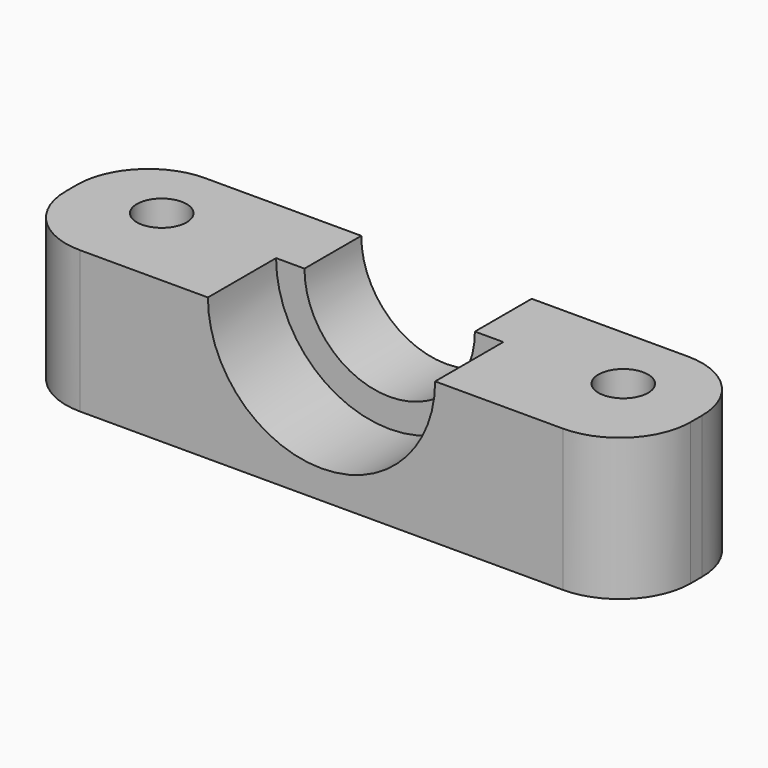
from build123d import *

# Parameters (mm, degrees)
F0_W      = 40
F0_H      = 11
F1_DEPTH  = 10
F2_R      = 8
F3_DEPTH  = 6
F4_R      = 6
F5_DEPTH  = 6
F6_W      = 11
F6_H      = 10
F7_DEPTH  = 2
F8_W      = 11
F8_H      = 10
F9_DEPTH  = 2
F10_R     = 5
F11_R     = 1.75
F12_DEPTH = 25
F13_R     = 2.75
F13_R_2   = 1.75
F14_DEPTH = 2


with BuildPart() as f1:
    # F0 (on Top) → F1 (new body)
    with BuildSketch(Plane.XY):
        with Locations((20, 5.5)):
            Rectangle(F0_W, F0_H)
    extrude(amount=F1_DEPTH)

    # F2 (on face) → F3 (cut)
    with BuildSketch(Plane.XZ):
        with Locations((20, 10)):
            Circle(F2_R)
    extrude(amount=-F3_DEPTH, mode=Mode.SUBTRACT)

    # F4 (on face) → F5 (cut)
    with BuildSketch(Plane(origin=(0, 11, 0), x_dir=(-1, 0, 0), z_dir=(0, 1, 0))):
        with Locations((-20, 10)):
            Circle(F4_R)
    extrude(amount=-F5_DEPTH, mode=Mode.SUBTRACT)

    # F6 (on face) → F7 (join)
    with BuildSketch(Plane(origin=(0, 0, 0), x_dir=(0, -1, 0), z_dir=(-1, 0, 0))):
        with Locations((-5.5, 5)):
            Rectangle(F6_W, F6_H)
    extrude(amount=F7_DEPTH)

    # F8 (on face) → F9 (join)
    with BuildSketch(Plane.YZ.offset(40)):
        with Locations((5.5, 5)):
            Rectangle(F8_W, F8_H)
    extrude(amount=F9_DEPTH)

    # F10
    f10_edges = [f1.edges().sort_by_distance(p)[0] for p in [
        (42, 11, 5),
        (42, 0, 5),
        (-2, 11, 5),
        (-2, 0, 5),
    ]]
    fillet(f10_edges, radius=F10_R)

    # F11 (on face) → F12 (cut)
    with BuildSketch(Plane.XY.offset(10)):
        with Locations((3.75, 6.25)):
            Circle(F11_R)
        with Locations((36.25, 6.25)):
            Circle(F11_R)
    extrude(amount=-F12_DEPTH, mode=Mode.SUBTRACT)

    # F13 (on face) → F14 (cut)
    with BuildSketch(Plane(origin=(0, 0, 0), x_dir=(1, 0, 0), z_dir=(0, 0, -1))):
        with Locations((3.75, -6.25)):
            Circle(F13_R)
        with Locations((3.75, -6.25)):
            Circle(F13_R_2, mode=Mode.SUBTRACT)
        with Locations((36.25, -6.25)):
            Circle(F13_R)
        with Locations((36.25, -6.25)):
            Circle(F13_R_2, mode=Mode.SUBTRACT)
    extrude(amount=-F14_DEPTH, mode=Mode.SUBTRACT)


solid = f1.part
